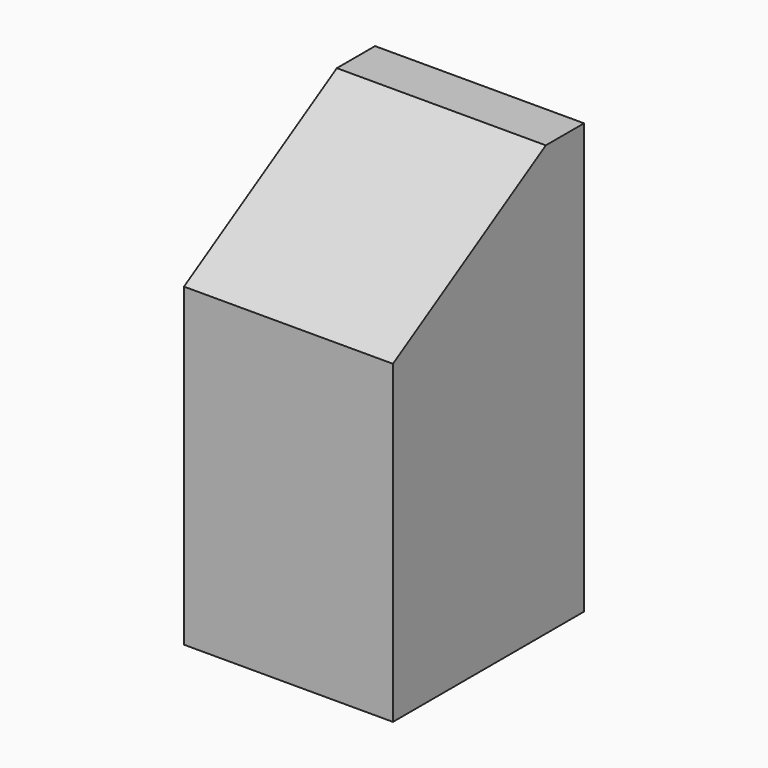
from build123d import *

# Parameters (mm, degrees)
SKETCH032_W     = 16
SKETCH032_H     = 16
PAD017_DEPTH    = 28.8
POCKET015_DEPTH = 16
SKETCH115_W     = 1
SKETCH115_H     = 16
POCKET031_DEPTH = 30
PAD134_DEPTH    = 14


with BuildPart() as part:
    # Sketch032 (on Face52 of Binder013) → Pad017 (new body)
    with BuildSketch(Plane.XY.offset(-28.8)):
        with Locations((96, -8)):
            Rectangle(SKETCH032_W, SKETCH032_H)
    extrude(amount=PAD017_DEPTH)

    # Sketch033 (on Face2 of Pad017) → Pocket015 (cut)
    with BuildSketch(Plane.YZ.offset(104)):
        Polygon((-16, 0), (-16, -9.6), (0, 0), align=None)
    extrude(amount=-POCKET015_DEPTH, mode=Mode.SUBTRACT)

    # Sketch115 (on Face2 of Pocket015) → Pocket031 (cut)
    with BuildSketch(Plane(origin=(0, 0, -28.8), x_dir=(1, 0, 0), z_dir=(0, 0, -1))):
        with Locations((103.5, 8)):
            Rectangle(SKETCH115_W, SKETCH115_H)
        with Locations((88.5, 8)):
            Rectangle(SKETCH115_W, SKETCH115_H)
    extrude(amount=-POCKET031_DEPTH, mode=Mode.SUBTRACT)

    # Sketch134 (on Face3 of Pocket031) → Pad134 (join)
    with BuildSketch(Plane.YZ.offset(103)):
        Polygon((0, 0), (-3.2, 0), (-16, -7.68), (-16, -10.88), (-3.2, -3.2), (0, -3.2), align=None)
    extrude(amount=-PAD134_DEPTH)


solid = part.part
